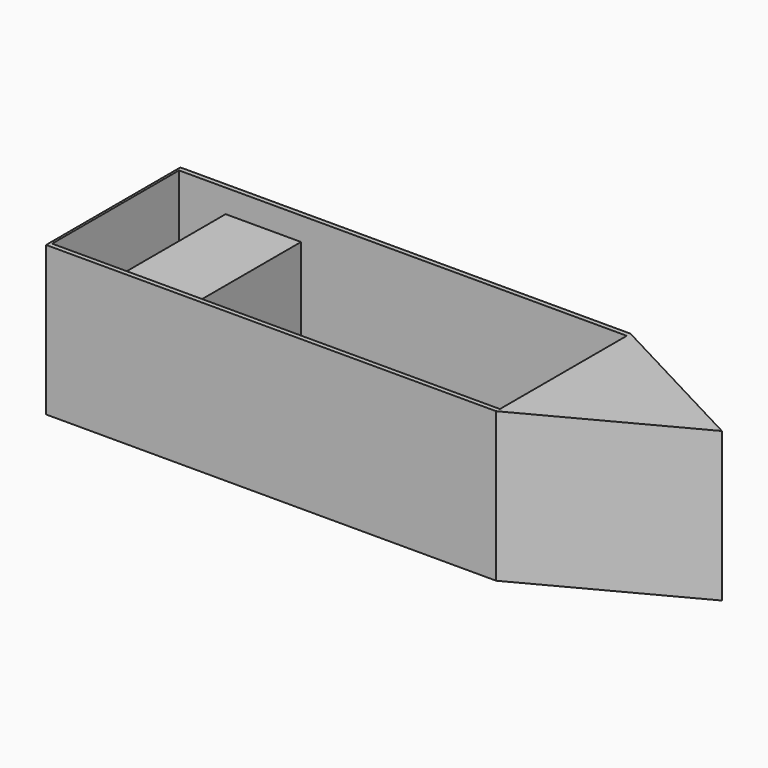
from build123d import *

# Parameters (mm, degrees)
F0_W     = 1219.2
F0_H     = 12.7
F1_DEPTH = 406.4
F2_W     = 1219.2
F2_H     = 431.8
F3_DEPTH = 12.7
F4_W     = 203.2
F4_H     = 431.8
F4_W_2   = 127
F5_DEPTH = 330.2
F6_W     = 124.9939593792
F6_H     = 431.8
F7_DEPTH = 254


with BuildPart() as f1:
    # F0 (on Top) → F1 (new body)
    with BuildSketch(Plane.XY):
        with Locations((609.6, 6.35)):
            Rectangle(F0_W, F0_H)
        Polygon((-6.3427571863, 0), (0, 0), (0, 12.7), (0, 444.5), (0, 457.2), (-6.3427571863, 456.896798293), align=None)
        Polygon((1219.2, 12.7), (1219.2, 0), (1243.1888888889, 12.7), align=None)
        Polygon((1219.2, 12.7), (1243.1888888889, 12.7), (1651, 228.6), (1243.1888888889, 444.5), (1219.2, 444.5), align=None)
        with Locations((609.6, 450.85)):
            Rectangle(F0_W, F0_H)
        Polygon((1219.2, 457.2), (1219.2, 444.5), (1243.1888888889, 444.5), align=None)
    extrude(amount=F1_DEPTH)

    # F2 (on face) → F3 (join)
    with BuildSketch(Plane(origin=(0, 0, 0), x_dir=(1, 0, 0), z_dir=(0, 0, -1))):
        with Locations((609.6, -228.6)):
            Rectangle(F2_W, F2_H)
    extrude(amount=-F3_DEPTH)

    # F4 (on face) → F5 (join)
    with BuildSketch(Plane.XY.offset(12.7)):
        with Locations((228.6, 228.6)):
            Rectangle(F4_W, F4_H)
        with Locations((393.7, 228.6)):
            Rectangle(F4_W_2, F4_H)
    extrude(amount=F5_DEPTH)

    # F6 (on face) → F7 (cut)
    with BuildSketch(Plane.XY.offset(342.9)):
        with Locations((394.7030203104, 228.6)):
            Rectangle(F6_W, F6_H)
    extrude(amount=-F7_DEPTH, mode=Mode.SUBTRACT)


solid = f1.part
